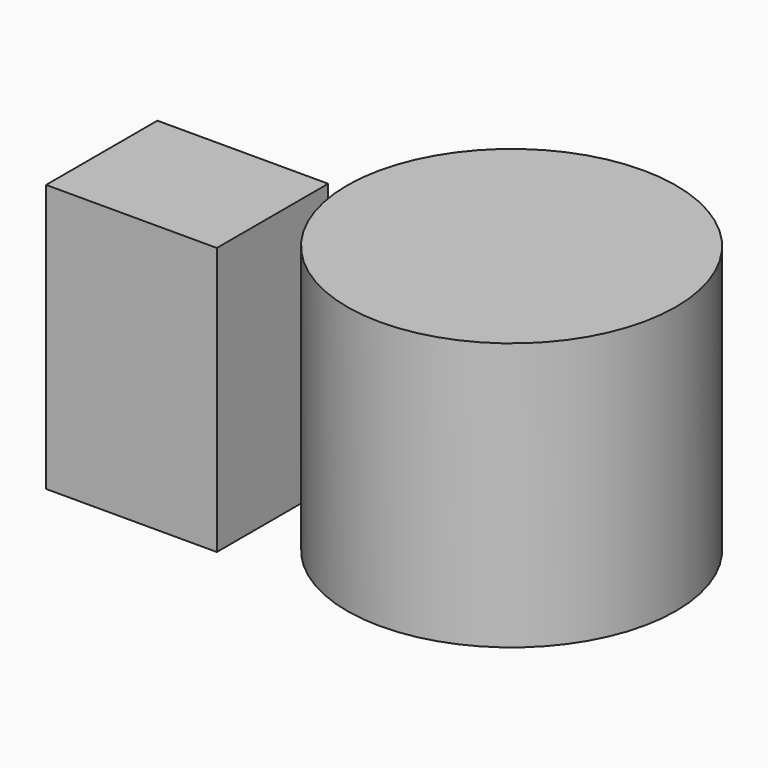
from build123d import *

# Parameters (mm, degrees)
F0_W     = 32.40405
F0_H     = 26.403301
F0_R     = 31.205038
F1_DEPTH = 50.8


with BuildPart() as f1:
    # F0 (on Top) → F1 (new body)
    with BuildSketch(Plane.XY):
        with Locations((-16.202025, 16.002)):
            Rectangle(F0_W, F0_H)
        with Locations((33.737551, 30.537149)):
            Circle(F0_R)
    extrude(amount=F1_DEPTH)


solid = f1.part
